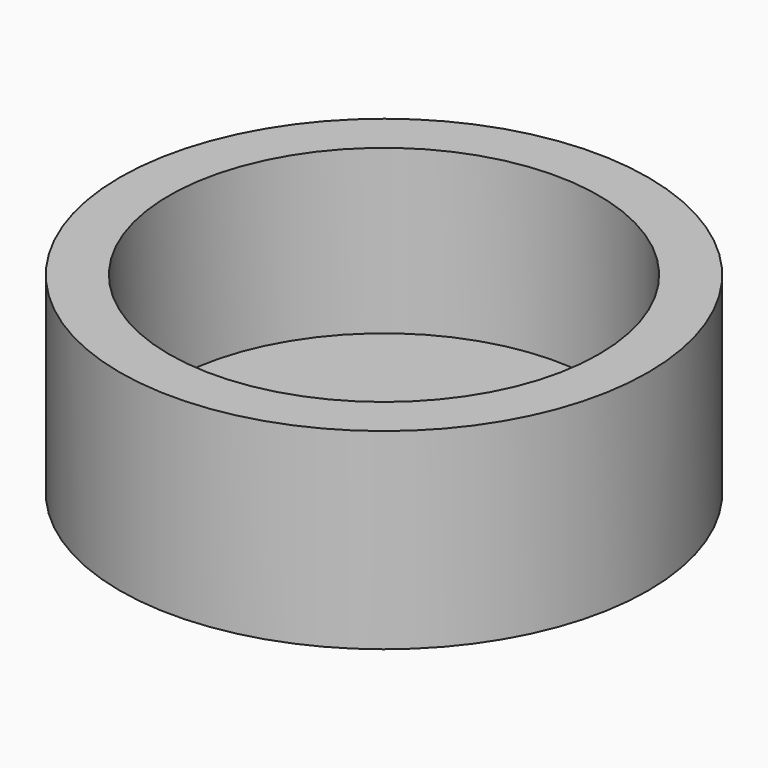
from build123d import *

# Parameters (mm, degrees)
SKETCH_R     = 27.5
PAD_DEPTH    = 20
SKETCH001_R  = 22.375
POCKET_DEPTH = 17


with BuildPart() as part:
    # Sketch → Pad (new body)
    with BuildSketch(Plane.XY):
        Circle(SKETCH_R)
    extrude(amount=PAD_DEPTH)

    # Sketch001 (on Face3 of Pad) → Pocket (cut)
    with BuildSketch(Plane.XY.offset(20)):
        Circle(SKETCH001_R)
    extrude(amount=-POCKET_DEPTH, mode=Mode.SUBTRACT)


solid = part.part
